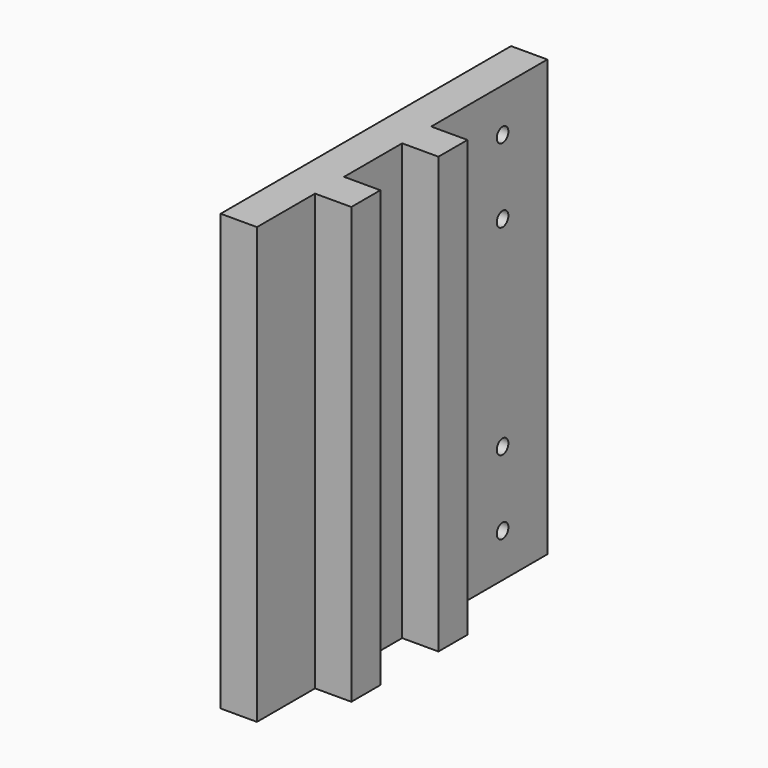
from build123d import *

# Parameters (mm, degrees)
F0_W     = 250
F0_H     = 300
F1_DEPTH = 25
F2_W     = 25
F2_H     = 300
F3_DEPTH = 25
F4_R     = 5
F5_DEPTH = 25


with BuildPart() as f1:
    # F0 (on Right) → F1 (new body)
    with BuildSketch(Plane.YZ):
        Rectangle(F0_W, F0_H)
    extrude(amount=F1_DEPTH)

    # F2 (on face) → F3 (join)
    with BuildSketch(Plane.YZ.offset(25)):
        with Locations((-62.5, 0)):
            Rectangle(F2_W, F2_H)
        with Locations((12.5, 0)):
            Rectangle(F2_W, F2_H)
    extrude(amount=F3_DEPTH)

    # F4 (on face) → F5 (cut, through all)
    with BuildSketch(Plane.YZ.offset(25)):
        with Locations((86.464388, 120)):
            Circle(F4_R)
        with Locations((38.535612, 68.982038)):
            Circle(F4_R)
        with Locations((38.535612, 120)):
            Circle(F4_R)
        with Locations((86.464388, 68.982038)):
            Circle(F4_R)
        with Locations((86.464388, -68.982038)):
            Circle(F4_R)
        with Locations((86.464388, -120)):
            Circle(F4_R)
        with Locations((38.535612, -120)):
            Circle(F4_R)
        with Locations((38.535612, -68.982038)):
            Circle(F4_R)
    extrude(amount=-F5_DEPTH, mode=Mode.SUBTRACT)


solid = f1.part
